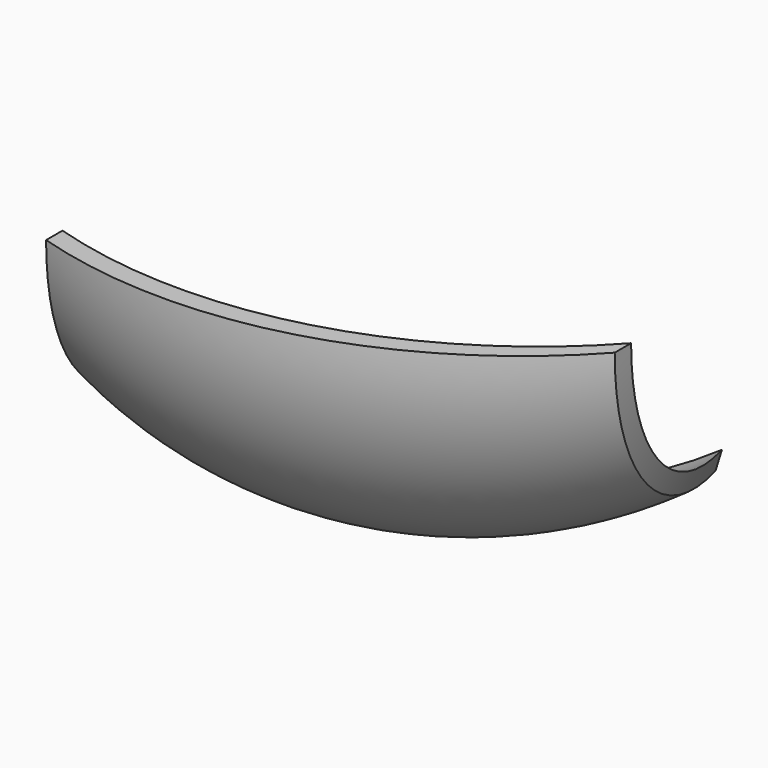
from build123d import *

# Parameters (mm, degrees)
F1_ANGLE = 90


with BuildPart() as f1:
    # F0 (on Top) → F1 (revolve)
    with BuildSketch(Plane.XY):
        with BuildLine():
            Line((-333.27742, -27.069779), (-333.27742, -52.469779))
            ThreePointArc((-333.27742, -52.469779), (-21.169922, -56.748996), (244.436035, 107.210991))
            Line((244.436035, 107.210991), (244.436035, 132.610991))
            ThreePointArc((244.436035, 132.610991), (-21.169922, -31.348996), (-333.27742, -27.069779))
        make_face()
    revolve(axis=Axis((-107.148601, 267.015634, 0), (0.963859, 0.266412, 0)), revolution_arc=F1_ANGLE)


solid = f1.part
